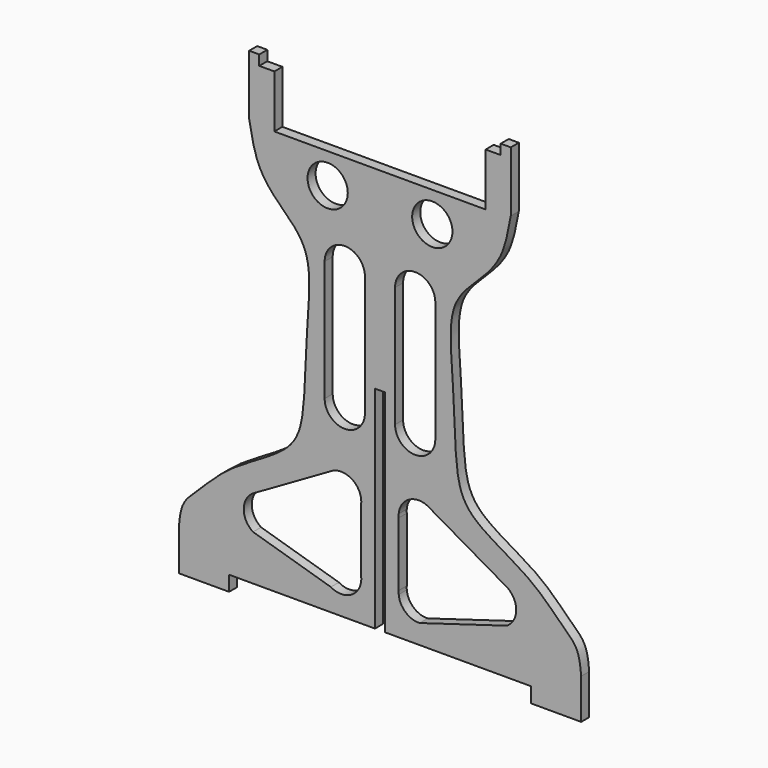
from build123d import *

# Parameters (mm, degrees)
F0_R     = 25.4
F1_DEPTH = 12.7
F3_DEPTH = 25.4


with BuildPart() as f1:
    # F0 (on Front) → F1 (new body)
    with BuildSketch(Plane.XZ):
        with BuildLine():
            Line((-6.35, 285.75), (0, 285.75))
            Line((0, 285.75), (0, 530.225))
            Line((0, 530.225), (-133.35, 530.225))
            Line((-133.35, 530.225), (-133.35, 596.9))
            Line((-133.35, 596.9), (-152.4, 596.9))
            Line((-152.4, 596.9), (-152.4, 609.6))
            Line((-152.4, 609.6), (-165.1, 609.6))
            Line((-165.1, 609.6), (-165.1, 533.4))
            add(Edge.make_bspline(
                [(-165.1, 533.4), (-161.9697013836, 516.0048850618), (-155.9318714731, 482.4525764355), (-125.5393550755, 449.0081112221), (-83.7666001834, 411.9480381505), (-93.3500119565, 326.8509854997), (-94.3836877464, 236.6940625404), (-106.4749493008, 180.4716743188), (-188.1929374524, 143.9043740357), (-228.1831750573, 100.3946907978), (-251.0192334088, 81.1936508198), (-252.9963492936, 61.0338134106), (-254, 50.8)],
                knots=[0, 0, 0, 0, 0.0959731621, 0.1851164057, 0.2805519957, 0.4025177519, 0.5319500735, 0.6289458648, 0.7530416243, 0.8572624534, 0.9275416072, 1, 1, 1, 1], degree=3))
            Line((-254, 50.8), (-254, 0))
            Line((-254, 0), (-190.5, 0))
            Line((-190.5, 0), (-190.5, 19.05))
            Line((-190.5, 19.05), (-6.35, 19.05))
            Line((-6.35, 19.05), (-6.35, 285.75))
        make_face()
        with BuildLine():
            Line((-62.0009822206, 47.1459924547), (-160.2498111723, 76.4396733512))
            ThreePointArc((-160.2498111723, 76.4396733512), (-171.9552123835, 98.4274609924), (-159.2389195946, 119.8464973987))
            Line((-159.2389195946, 119.8464973987), (-59.3678694771, 177.3668921793))
            ThreePointArc((-59.3678694771, 177.3668921793), (-34.2386394195, 174.8714173249), (-23.6816051959, 151.9311769942))
            Line((-23.6816051959, 151.9311769942), (-23.6816051959, 71.2117587397))
            ThreePointArc((-23.6816051959, 71.2117587397), (-35.4723478909, 47.4454693261), (-62.0009822206, 47.1459924547))
        make_face(mode=Mode.SUBTRACT)
        with Locations((-66.0427957773, 491.9940531254)):
            Circle(F0_R, mode=Mode.SUBTRACT)
        with BuildLine():
            Line((0, 530.225), (0, 285.75))
            Line((0, 285.75), (6.35, 285.75))
            Line((6.35, 285.75), (6.35, 19.05))
            Line((6.35, 19.05), (190.5, 19.05))
            Line((190.5, 19.05), (190.5, 0))
            Line((190.5, 0), (254, 0))
            Line((254, 0), (254, 50.8))
            add(Edge.make_bspline(
                [(165.1, 533.4), (161.9697013836, 516.0048850618), (155.9318714731, 482.4525764355), (125.5393550755, 449.0081112221), (83.7666001834, 411.9480381505), (93.3500119565, 326.8509854997), (94.3836877464, 236.6940625404), (106.4749493008, 180.4716743188), (188.1929374524, 143.9043740357), (228.1831750573, 100.3946907978), (251.0192334088, 81.1936508198), (252.9963492936, 61.0338134106), (254, 50.8)],
                knots=[0, 0, 0, 0, 0.0959731621, 0.1851164057, 0.2805519957, 0.4025177519, 0.5319500735, 0.6289458648, 0.7530416243, 0.8572624534, 0.9275416072, 1, 1, 1, 1], degree=3))
            Line((165.1, 533.4), (165.1, 609.6))
            Line((165.1, 609.6), (152.4, 609.6))
            Line((152.4, 609.6), (152.4, 596.9))
            Line((152.4, 596.9), (133.35, 596.9))
            Line((133.35, 596.9), (133.35, 530.225))
            Line((133.35, 530.225), (0, 530.225))
        make_face()
        with BuildLine():
            ThreePointArc((59.3678694771, 177.3668921793), (61.6579975727, 176.198075446), (63.8182289317, 174.8037226477))
            Line((63.8182289317, 174.8037226477), (159.2389195946, 119.8464973987))
            ThreePointArc((159.2389195946, 119.8464973987), (171.9552123835, 98.4274609924), (160.2498111723, 76.4396733512))
            Line((160.2498111723, 76.4396733512), (50.0307281778, 43.5769646513))
            ThreePointArc((50.0307281778, 43.5769646513), (32.2279529913, 49.8636621936), (23.6816051959, 66.6987835085))
            ThreePointArc((23.6816051959, 66.6987835085), (23.5811756199, 68.9552711241), (23.6816051959, 71.2117587397))
            Line((23.6816051959, 71.2117587397), (23.6816051959, 151.9311769942))
            ThreePointArc((23.6816051959, 151.9311769942), (23.5811756199, 154.1876646098), (23.6816051959, 156.4441522254))
            ThreePointArc((23.6816051959, 156.4441522254), (36.1344354237, 176.0993342479), (59.3678694771, 177.3668921793))
        make_face(mode=Mode.SUBTRACT)
        with Locations((66.0427957773, 491.9940531254)):
            Circle(F0_R, mode=Mode.SUBTRACT)
    extrude(amount=F1_DEPTH)

    # F2 (on face) → F3 (cut)
    with BuildSketch(Plane.XZ.offset(12.7)):
        with BuildLine():
            Line((-19.05, 254), (-19.05, 406.4))
            ThreePointArc((-19.05, 406.4), (-44.45, 431.8), (-69.85, 406.4))
            Line((-69.85, 406.4), (-69.85, 254))
            ThreePointArc((-69.85, 254), (-44.45, 228.6), (-19.05, 254))
        make_face()
        with BuildLine():
            Line((69.85, 254), (69.85, 406.4))
            ThreePointArc((69.85, 406.4), (44.45, 431.8), (19.05, 406.4))
            Line((19.05, 406.4), (19.05, 254))
            ThreePointArc((19.05, 254), (44.45, 228.6), (69.85, 254))
        make_face()
    extrude(amount=-F3_DEPTH, mode=Mode.SUBTRACT)


solid = f1.part
